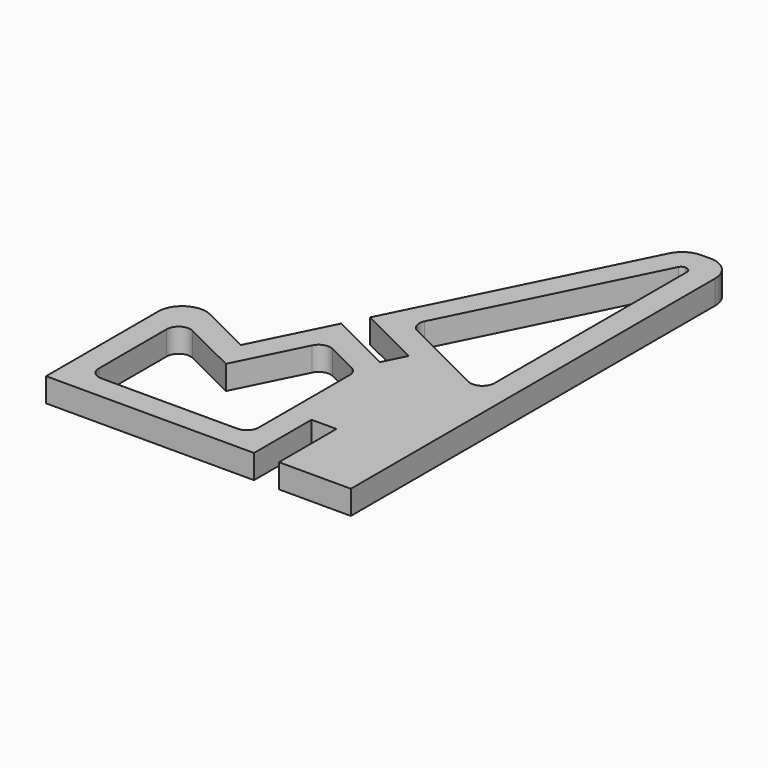
from build123d import *

# Parameters (mm, degrees)
F1_DEPTH = 5


with BuildPart() as f1:
    # F0 (on Top) → F1 (new body)
    with BuildSketch(Plane.XY):
        with BuildLine():
            Line((28.138168, -69.290428), (28.138168, 25.709572))
            ThreePointArc((28.138168, 25.709572), (26.673701, 29.245106), (23.138168, 30.709572))
            Line((23.138168, 30.709572), (21.233895, 30.709572))
            ThreePointArc((21.233895, 30.709572), (18.601821, 29.960712), (16.75817, 27.938448))
            Line((16.75817, 27.938448), (-7.181855, -20.134665))
            Line((-7.181855, -20.134665), (6.24532, -26.821291))
            Line((6.24532, -26.821291), (3.92729, -31.476045))
            Line((3.92729, -31.476045), (-9.499885, -24.789419))
            Line((-9.499885, -24.789419), (-17.523836, -40.902029))
            Line((-17.523836, -40.902029), (-28.197861, -35.58645))
            ThreePointArc((-28.197861, -35.58645), (-33.05881, -35.811036), (-35.426736, -40.062176))
            Line((-35.426736, -40.062176), (-35.426736, -69.290428))
            Line((-35.426736, -69.290428), (7.938168, -69.290428))
            Line((7.938168, -69.290428), (7.938168, -54.290428))
            Line((7.938168, -54.290428), (13.138168, -54.290428))
            Line((13.138168, -54.290428), (13.138168, -69.290428))
            Line((13.138168, -69.290428), (28.138168, -69.290428))
        make_face()
        with BuildLine():
            Line((2.938168, -49.290428), (2.938168, -61.790428))
            ThreePointArc((2.938168, -61.790428), (2.205935, -63.558195), (0.438168, -64.290428))
            Line((0.438168, -64.290428), (-27.926736, -64.290428))
            ThreePointArc((-27.926736, -64.290428), (-29.694503, -63.558195), (-30.426736, -61.790428))
            Line((-30.426736, -61.790428), (-30.426736, -44.099999))
            ThreePointArc((-30.426736, -44.099999), (-29.242773, -41.974429), (-26.812299, -41.862136))
            Line((-26.812299, -41.862136), (-15.276986, -47.60663))
            Line((-15.276986, -47.60663), (-8.367473, -33.731882))
            ThreePointArc((-8.367473, -33.731882), (-6.923992, -32.475885), (-5.015173, -32.608457))
            Line((-5.015173, -32.608457), (1.552605, -35.879158))
            ThreePointArc((1.552605, -35.879158), (2.563737, -36.800983), (2.938168, -38.11702))
            Line((2.938168, -38.11702), (2.938168, -49.290428))
        make_face(mode=Mode.SUBTRACT)
        with BuildLine():
            Line((21.914955, 25.709572), (21.938168, 25.709572))
            ThreePointArc((21.938168, 25.709572), (22.786696, 25.358101), (23.138168, 24.509572))
            Line((23.138168, 24.509572), (23.138168, -25.610282))
            ThreePointArc((23.138168, -25.610282), (21.954204, -27.735852), (19.52373, -27.848145))
            Line((19.52373, -27.848145), (12.949921, -24.574441))
            Line((12.949921, -24.574441), (1.760608, -19.002253))
            ThreePointArc((1.760608, -19.002253), (0.504611, -17.558771), (0.637183, -15.649952))
            Line((0.637183, -15.649952), (20.930295, 25.099925))
            ThreePointArc((20.930295, 25.099925), (21.335899, 25.544823), (21.914955, 25.709572))
        make_face(mode=Mode.SUBTRACT)
    extrude(amount=F1_DEPTH)


solid = f1.part
